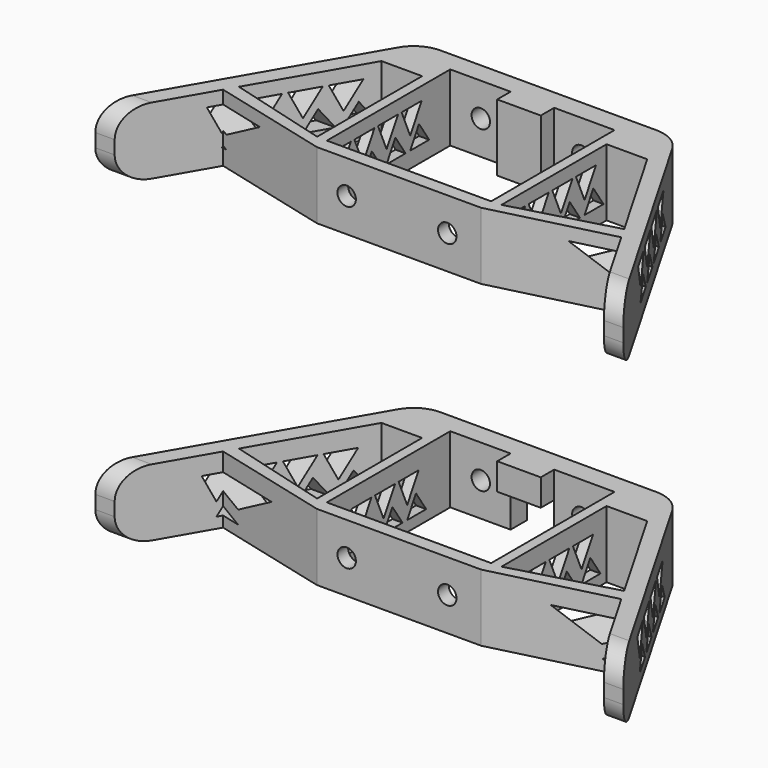
from build123d import *

# Parameters (mm, degrees)
F0_W      = 49
F0_H      = 41
F1_DEPTH  = 20
F2_R      = 10
F5_D      = 5.5
F6_DEPTH  = 5
F9_W      = 13
F9_H      = 12
F10_DEPTH = 11.0578227615
F12_DEPTH = 100
F14_DEPTH = 100
F15_R     = 8
F15_2_R   = 8


with BuildPart() as f1:
    # F0 (on Top) → F1 (new body)
    with BuildSketch(Plane.XY):
        Polygon((-72.9883923273, -38.9992449399), (-59.4323521395, -15.5194945852), (-24.273112406, -24.5), (24.726887594, -24.5), (59.5065852395, -15.7372810551), (72.9368863502, -38.9992449399), (78.7103890421, -38.9992449399), (37.9742470115, 31.5578227615), (-0.0257529885, 31.5578227615), (-38.0257529885, 31.5578227615), (-78.7618950192, -38.9992449399), align=None)
        Polygon((-27.5, -19.6889546948), (-27.5, -20.3833281433), (-57.4525441079, -12.0903664851), (-39.6369039098, 18.7672275072), (-27.5, 18.7672275072), align=None, mode=Mode.SUBTRACT)
        Rectangle(F0_W, F0_H, mode=Mode.SUBTRACT)
        Polygon((57.4525441079, -12.0903664851), (27.5, -20.3833281433), (27.5, 18.7672275072), (39.6369039098, 18.7672275072), align=None, mode=Mode.SUBTRACT)
        Polygon((-72.9883923273, -38.9992449399), (-59.4323521395, -15.5194945852), (-24.273112406, -24.5), (24.726887594, -24.5), (59.5065852395, -15.7372810551), (72.9368863502, -38.9992449399), (78.7103890421, -38.9992449399), (37.9742470115, 31.5578227615), (-0.0257529885, 31.5578227615), (-38.0257529885, 31.5578227615), (-78.7618950192, -38.9992449399), align=None)
        Polygon((-27.5, -19.6889546948), (-27.5, -20.3833281433), (-57.4525441079, -12.0903664851), (-39.6369039098, 18.7672275072), (-27.5, 18.7672275072), align=None, mode=Mode.SUBTRACT)
        Rectangle(F0_W, F0_H, mode=Mode.SUBTRACT)
        Polygon((57.4525441079, -12.0903664851), (27.5, -20.3833281433), (27.5, 18.7672275072), (39.6369039098, 18.7672275072), align=None, mode=Mode.SUBTRACT)
    extrude(amount=F1_DEPTH)

    # F2
    f2_edges = [f1.edges().sort_by_distance(p)[0] for p in [
        (37.974247, 31.557823, 10),
        (-38.025753, 31.557823, 10),
    ]]
    fillet(f2_edges, radius=F2_R)

    # F5 (through all)
    with Locations(Plane.XZ.offset(24.5)):
        with Locations((-15.3903365869, 10.0520839915), (14.6096634131, 10.0520839915)):
            Hole(F5_D / 2)

    # F3 (on face) → F6 (cut)
    with BuildSketch(Plane.XZ.offset(-20.5)):
        Polygon((-6.5, 0), (-6.5, 10), (-6.5, 20), (-24.5, 20), (-24.5, 0), align=None)
        Polygon((6.5, 10), (6.5, 0), (24.5, 0), (24.5, 20), (6.5, 20), align=None)
    extrude(amount=-F6_DEPTH, mode=Mode.SUBTRACT)


with BuildPart() as f7_1:
    # F7: copy of F1
    add(f1.part)


with BuildPart() as f7_1_1:
    # F8: moved
    add(f7_1.part.moved(Location((0, 0, -95))))

    # F9 (on face) → F10 (cut, through all)
    with BuildSketch(Plane.XZ.offset(-20.5)):
        with Locations((0, -89)):
            Rectangle(F9_W, F9_H)
    extrude(amount=-F10_DEPTH, mode=Mode.SUBTRACT)

    # F13 (on face) → F14 (cut, symmetric)
    with BuildSketch(Plane.YZ.offset(-24.5)):
        Polygon((-20.1610479903, -80.4466364009), (-16.9555474472, -87.8683674407), (-12.6654566427, -80.4466364009), align=None)
        Polygon((-13.6654083085, -86.1258852553), (-16.9555474472, -91.817729294), (-9.8814353746, -91.817729294), align=None)
        Polygon((-1.0814353746, -91.817729294), (-4.8654083085, -86.1258852553), (-8.1555474472, -91.817729294), align=None)
        Polygon((-11.3610479903, -80.4466364009), (-8.1555474472, -87.8683674407), (-3.8654566427, -80.4466364009), align=None)
        Polygon((-2.5610479903, -80.4466364009), (0.6444525528, -87.8683674407), (4.9345433573, -80.4466364009), align=None)
        Polygon((7.7185646254, -91.817729294), (3.9345916915, -86.1258852553), (0.6444525528, -91.817729294), align=None)
        Polygon((6.2389520097, -80.4466364009), (9.4444525528, -87.8683674407), (13.7345433573, -80.4466364009), align=None)
        Polygon((16.5185646254, -91.817729294), (12.7345916915, -86.1258852553), (9.4444525528, -91.817729294), align=None)
    extrude(amount=F14_DEPTH, both=True, mode=Mode.SUBTRACT)

    # F15#2
    f15_2_edges = [f7_1_1.edges().sort_by_distance(p)[0] for p in [
        (-75.875144, -38.999245, -75),
        (-75.875144, -38.999245, -95),
        (75.823638, -38.999245, -75),
        (75.823638, -38.999245, -95),
    ]]
    fillet(f15_2_edges, radius=F15_2_R)


with BuildPart() as f1_1:
    add(f1.part)

    # F11 (on face) → F12 (cut, symmetric)
    with BuildSketch(Plane.YZ.offset(-24.5)):
        Polygon((-19.0397370607, 16.0973314419), (-15.8342365175, 8.6756004021), (-11.544145713, 16.0973314419), align=None)
        Polygon((-12.5440973788, 10.4180825874), (-15.8342365175, 4.7262385488), (-8.760124445, 4.7262385488), align=None)
        Polygon((-10.2397370607, 16.0973314419), (-7.0342365175, 8.6756004021), (-2.744145713, 16.0973314419), align=None)
        Polygon((0.039875555, 4.7262385488), (-3.7440973788, 10.4180825874), (-7.0342365175, 4.7262385488), align=None)
        Polygon((-1.4397370607, 16.0973314419), (1.7657634825, 8.6756004021), (6.055854287, 16.0973314419), align=None)
        Polygon((8.839875555, 4.7262385488), (5.0559026212, 10.4180825874), (1.7657634825, 4.7262385488), align=None)
        Polygon((7.3602629393, 16.0973314419), (10.5657634825, 8.6756004021), (14.855854287, 16.0973314419), align=None)
        Polygon((17.639875555, 4.7262385488), (13.8559026212, 10.4180825874), (10.5657634825, 4.7262385488), align=None)
    extrude(amount=F12_DEPTH, both=True, mode=Mode.SUBTRACT)

    # F15
    f15_edges = [f1_1.edges().sort_by_distance(p)[0] for p in [
        (-75.875144, -38.999245, 20),
        (-75.875144, -38.999245, 0),
        (75.823638, -38.999245, 20),
        (75.823638, -38.999245, 0),
    ]]
    fillet(f15_edges, radius=F15_R)


solid = Compound([f7_1_1.part, f1_1.part])
